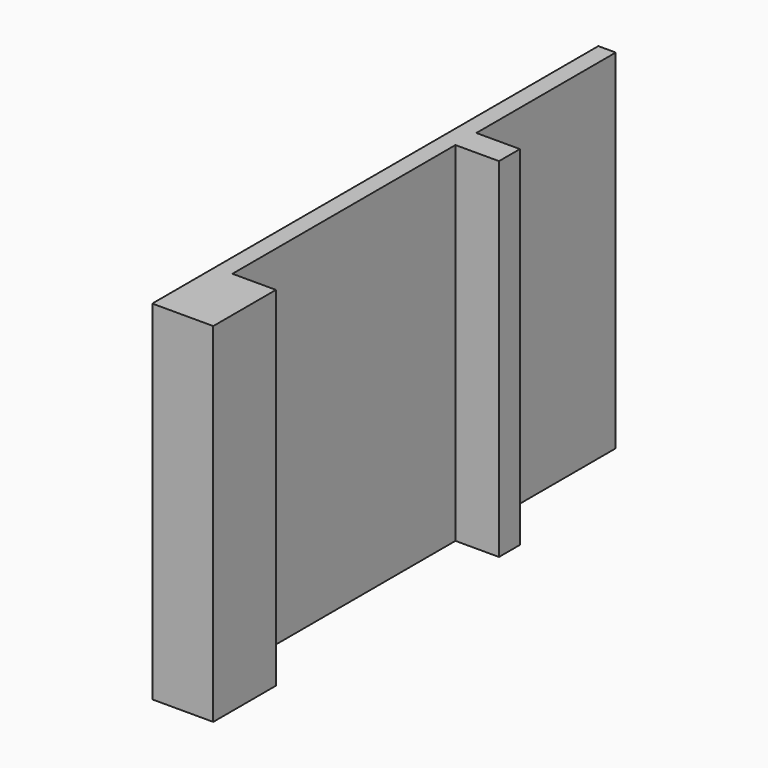
from build123d import *

# Parameters (mm, degrees)
F0_W     = 5
F0_H     = 9
F0_H_2   = 3
F1_DEPTH = 40


with BuildPart() as f1:
    # F0 (on Top) → F1 (new body)
    with BuildSketch(Plane.XY):
        Polygon((1, 32), (-1, 32), (-1, -32), (1, -32), (1, -23), (1, 9), (1, 12), align=None)
        with Locations((3.5, -27.5)):
            Rectangle(F0_W, F0_H)
        with Locations((3.5, 10.5)):
            Rectangle(F0_W, F0_H_2)
    extrude(amount=F1_DEPTH)


solid = f1.part
